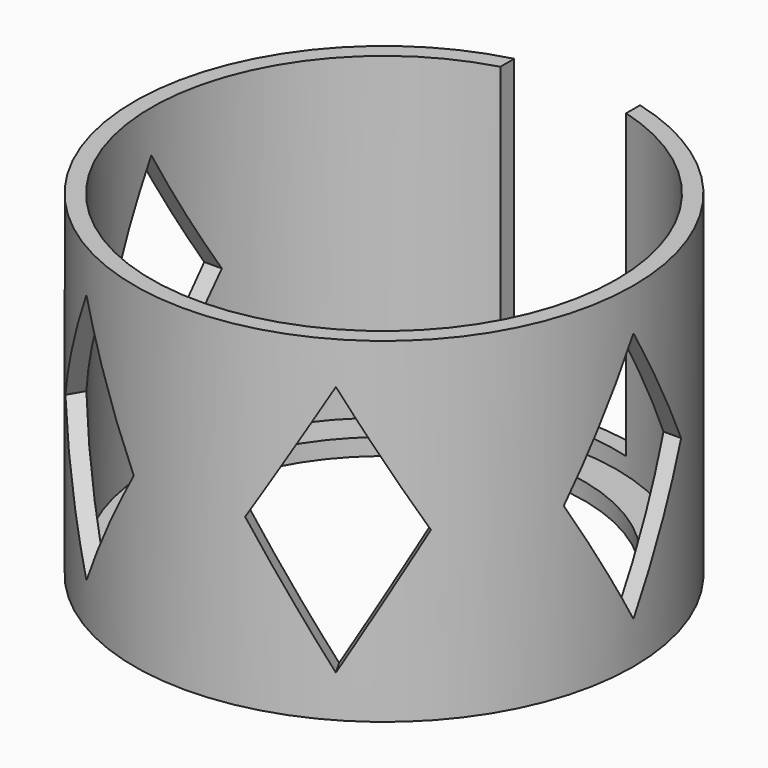
from build123d import *

# Parameters (mm, degrees)
POCKET_DEPTH       = 432.177804
POLARPATTERN_COUNT = 4
POLARPATTERN_ANGLE = 180
SKETCH006_W        = 30
SKETCH006_H        = 75
POCKET001_DEPTH    = 72


with BuildPart() as part:
    # Sketch → Revolution001 (revolve)
    with BuildSketch(Plane.XZ):
        Polygon((47.75, 29.8), (55.5, 29.8), (55.5, 105.8), (59.5, 105.8), (59.5, 25.8), (47.75, 25.8), align=None)
    revolve(axis=Axis((0, 0, 0), (0, 0, 1)))

    # Sketch005 → Pocket (cut, through all)
    with BuildSketch(Plane.YZ):
        Polygon((0, 35.8), (-17.5, 65.8), (0, 95.8), (17.5, 65.8), align=None)
    pocket = extrude(amount=-POCKET_DEPTH, mode=Mode.SUBTRACT)

    # PolarPattern: Pocket ×4 about axis
    polarpattern_axis = Axis((0, 0, 0), (0, 0, 1))
    for i in range(1, POLARPATTERN_COUNT):
        add(pocket.rotate(polarpattern_axis, i * POLARPATTERN_ANGLE / (POLARPATTERN_COUNT - 1)), mode=Mode.SUBTRACT)

    # Sketch006 (on Face7 of PolarPattern) → Pocket001 (cut)
    with BuildSketch(Plane(origin=(0, 0, 105.8), x_dir=(-1, 0, 0), z_dir=(0, 0, 1))):
        with Locations((0, -37.5)):
            Rectangle(SKETCH006_W, SKETCH006_H)
    extrude(amount=-POCKET001_DEPTH, mode=Mode.SUBTRACT)


solid = part.part
